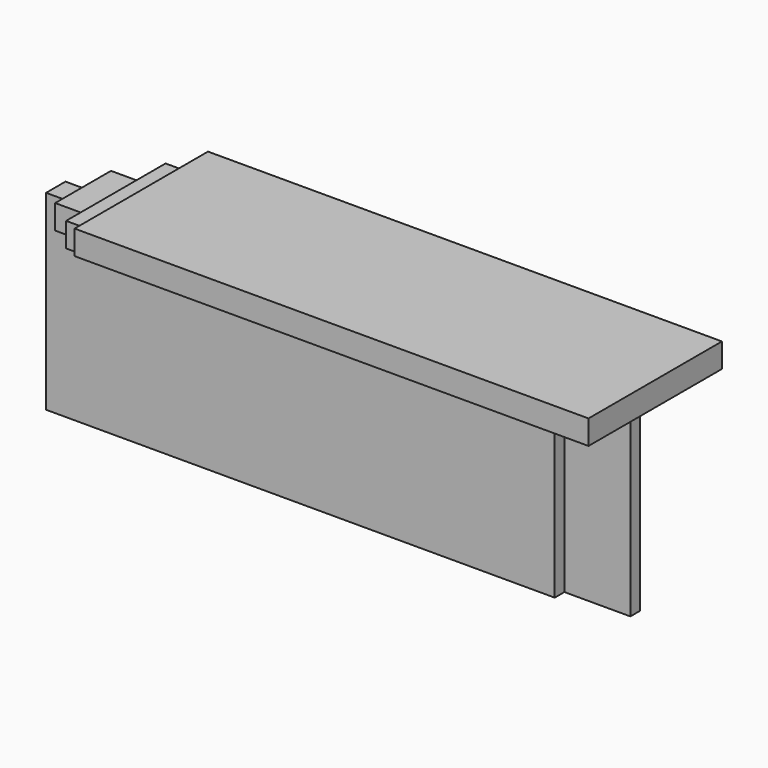
from build123d import *

# Parameters (mm, degrees)
F0_W      = 1550.9875
F0_H      = 25.4
F1_DEPTH  = 174.625
F3_W      = 1419.225
F3_H      = 25.4
F4_DEPTH  = 130.175
F5_W      = 1292.225
F5_H      = 25.4
F6_DEPTH  = 73.025
F2_W      = 1363.6625
F2_H      = 250.825
F7_DEPTH  = 25.4
F9_DEPTH  = 12.7
F10_W     = 936.912687
F10_H     = 531.850287
F11_DEPTH = 174.626
F13_DEPTH = 174.626


with BuildPart() as f1:
    # F0 (on Front) → F1 (new body)
    with BuildSketch(Plane.XZ):
        with Locations((0, -12.7)):
            Rectangle(F0_W, F0_H)
    extrude(amount=F1_DEPTH)

    # F3 (on Front) → F4 (join)
    with BuildSketch(Plane.XZ):
        with Locations((0, -38.1)):
            Rectangle(F3_W, F3_H)
    extrude(amount=F4_DEPTH)

    # F5 (on Front) → F6 (join)
    with BuildSketch(Plane.XZ):
        with Locations((0, -63.5)):
            Rectangle(F5_W, F5_H)
    extrude(amount=F6_DEPTH)

    # F2 (on Front) → F7 (join)
    with BuildSketch(Plane.XZ):
        with Locations((7.9375, -150.8125)):
            Rectangle(F2_W, F2_H)
    extrude(amount=F7_DEPTH)

    # F8 (on face) → F9 (cut)
    with BuildSketch(Plane.XZ.offset(25.4)):
        Polygon((-673.89375, -50.8), (-673.89375, -276.225), (-620.7125, -276.225), (-620.7125, -76.2), (-646.1125, -76.2), (-646.1125, -50.8), align=None)
        Polygon((620.7125, -76.2), (620.7125, -276.225), (689.76875, -276.225), (689.76875, -50.8), (646.1125, -50.8), (646.1125, -76.2), align=None)
    extrude(amount=-F9_DEPTH, mode=Mode.SUBTRACT)

    # F10 (on Front) → F11 (cut, through all)
    with BuildSketch(Plane.XZ):
        with Locations((-380.350093, -119.809725)):
            Rectangle(F10_W, F10_H)
    extrude(amount=F11_DEPTH, mode=Mode.SUBTRACT)

    # F12 (on Front) → F13 (cut, through all)
    with BuildSketch(Plane.XZ):
        Polygon((237.33125, -25.4), (237.33125, 0), (148.372248, 68.829454), (-112.537719, 31.016426), (38.714431, -95.657267), (88.10625, -76.2), (135.73125, -76.2), (135.73125, -50.8), (192.88125, -50.8), (192.88125, -25.4), align=None)
    extrude(amount=F13_DEPTH, mode=Mode.SUBTRACT)


solid = f1.part
